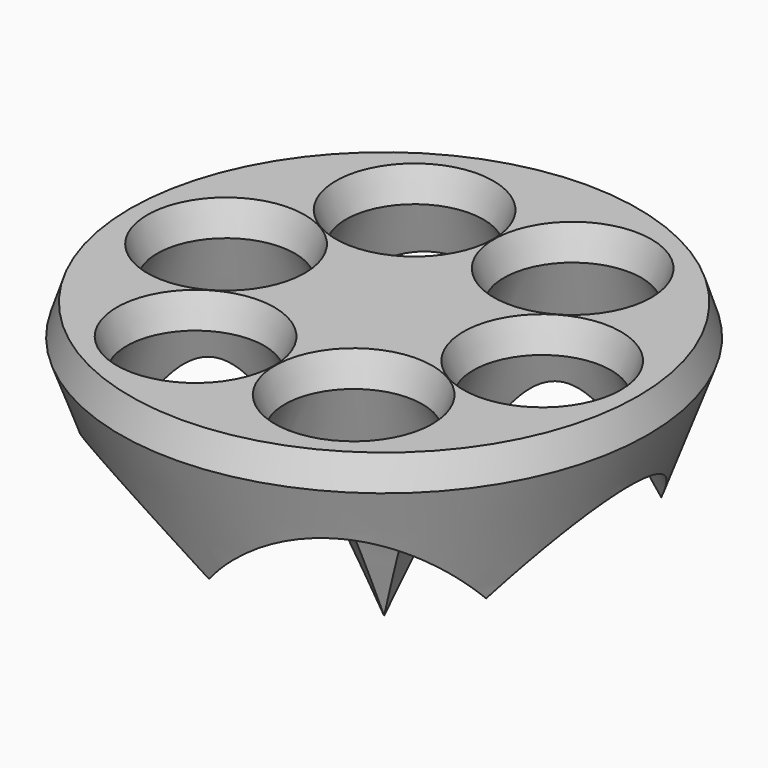
from build123d import *

# Parameters (mm, degrees)
F0_R        = 25.7963283139
F0_R_2      = 6.7258148215
F1_DEPTH    = 3
F1_TAPER    = 18
F1_FACE_R   = 25.7963283139
F1_FACE_R_2 = 6.7258148215
F2_DEPTH    = 25.4
F2_TAPER    = 20


with BuildPart() as f1:
    # F0 (on Top) → F1 (new body)
    with BuildSketch(Plane.XY):
        Circle(F0_R)
        with Locations((-7.7232278205, -13.3770229835)):
            Circle(F0_R_2, mode=Mode.SUBTRACT)
        with Locations((7.7232278205, -13.3770229835)):
            Circle(F0_R_2, mode=Mode.SUBTRACT)
        with Locations((-15.4464556409, 0)):
            Circle(F0_R_2, mode=Mode.SUBTRACT)
        with Locations((-7.7232278205, 13.3770229835)):
            Circle(F0_R_2, mode=Mode.SUBTRACT)
        with Locations((15.4464556409, 0)):
            Circle(F0_R_2, mode=Mode.SUBTRACT)
        with Locations((7.7232278205, 13.3770229835)):
            Circle(F0_R_2, mode=Mode.SUBTRACT)
    extrude(amount=F1_DEPTH, taper=F1_TAPER)

    # F1_face (on face) → F2 (join)
    with BuildSketch(Plane(origin=(0, 0, 0), x_dir=(1, 0, 0), z_dir=(0, 0, -1))):
        Circle(F1_FACE_R)
        with Locations((-7.7232278205, 13.3770229835)):
            Circle(F1_FACE_R_2, mode=Mode.SUBTRACT)
        with Locations((7.7232278205, 13.3770229835)):
            Circle(F1_FACE_R_2, mode=Mode.SUBTRACT)
        with Locations((-15.4464556409, 0)):
            Circle(F1_FACE_R_2, mode=Mode.SUBTRACT)
        with Locations((-7.7232278205, -13.3770229835)):
            Circle(F1_FACE_R_2, mode=Mode.SUBTRACT)
        with Locations((15.4464556409, 0)):
            Circle(F1_FACE_R_2, mode=Mode.SUBTRACT)
        with Locations((7.7232278205, -13.3770229835)):
            Circle(F1_FACE_R_2, mode=Mode.SUBTRACT)
    extrude(amount=F2_DEPTH, taper=F2_TAPER)


solid = f1.part
